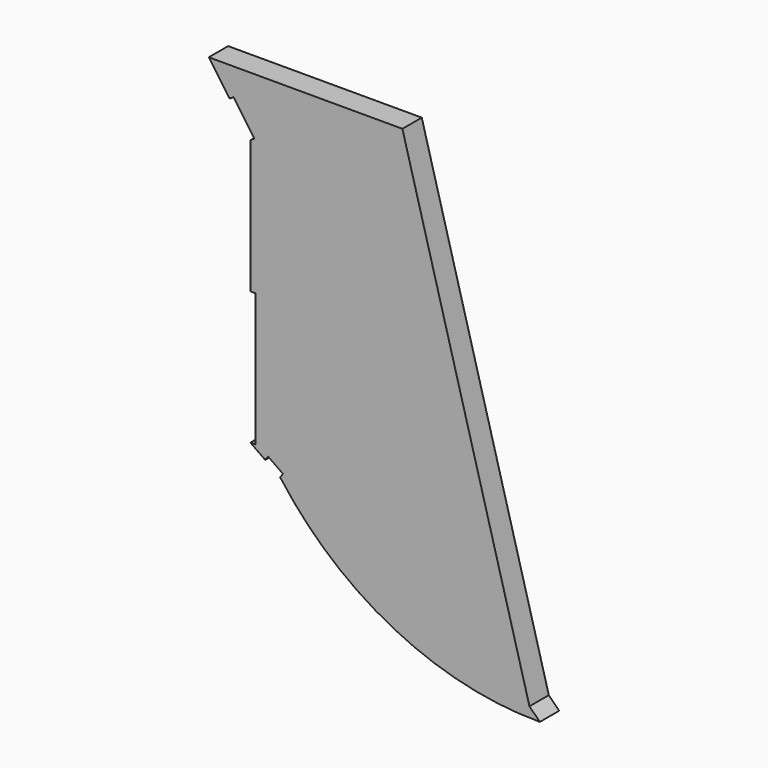
from build123d import *

# Parameters (mm, degrees)
F1_DEPTH = 25.4


with BuildPart() as f1:
    # F0 (on Front) → F1 (new body)
    with BuildSketch(Plane.XZ):
        with BuildLine():
            Line((203.2, 0), (0, 0))
            Line((0, 0), (21.853262, -31.209693))
            Line((21.853262, -31.209693), (26.014555, -28.295925))
            Line((26.014555, -28.295925), (47.867817, -59.505617))
            Line((47.867817, -59.505617), (43.706524, -62.419386))
            Line((43.706524, -62.419386), (43.706524, -202.119386))
            Line((43.706524, -202.119386), (48.786524, -202.119386))
            Line((48.786524, -202.119386), (48.786524, -341.819386))
            Line((48.786524, -341.819386), (43.706524, -341.819386))
            Line((43.706524, -341.819386), (59.311371, -352.746017))
            Line((59.311371, -352.746017), (62.225139, -348.584725))
            Line((62.225139, -348.584725), (77.829986, -359.511356))
            Line((77.829986, -359.511356), (74.916217, -363.672648))
            ThreePointArc((74.916217, -363.672648), (194.72671, -465.031598), (347.472841, -501.042848))
            Line((347.472841, -501.042848), (336.536605, -490.189096))
            Line((336.536605, -490.189096), (203.2, 0))
        make_face()
    extrude(amount=F1_DEPTH)


solid = f1.part
